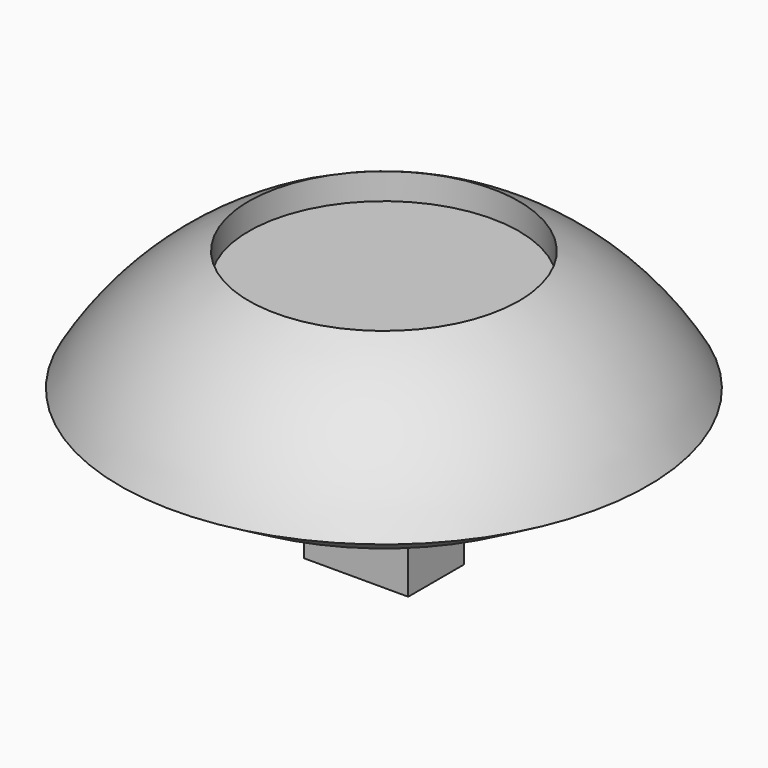
from build123d import *

# Parameters (mm, degrees)
CYLINDER_R     = 7
CYLINDER_DEPTH = 5
SKETCH_W       = 5.4
SKETCH_H       = 3.6
SKETCH_W_2     = 3
SKETCH_H_2     = 1.2
PAD_DEPTH      = 15.5


with BuildPart() as cylinder:
    # Cylinder → Cylinder (new body)
    with BuildSketch(Plane.XY.offset(12.8)):
        Circle(CYLINDER_R)
    extrude(amount=CYLINDER_DEPTH)


with BuildPart() as body001:
    # Sketch001 → Revolution (revolve)
    with BuildSketch(Plane.XZ):
        with BuildLine():
            ThreePointArc((0, 15.8), (-7.9, 13.683201), (-13.683201, 7.9))
            Line((-10.392305, 6), (-13.683201, 7.9))
            ThreePointArc((0, 12), (-6, 10.392305), (-10.392305, 6))
            Line((0, 15.8), (0, 12))
        make_face()
    revolve(axis=Axis((0, 0, 0), (0, 0, 1)))


with BuildPart() as cut:
    # Sketch → Pad (new body)
    with BuildSketch(Plane.XY):
        Rectangle(SKETCH_W, SKETCH_H)
        Rectangle(SKETCH_W_2, SKETCH_H_2, mode=Mode.SUBTRACT)
    extrude(amount=PAD_DEPTH)

    # Boolean: union Body001
    add(body001.part)

    # Cut: cut Cylinder
    add(cylinder.part, mode=Mode.SUBTRACT)


solid = cut.part
